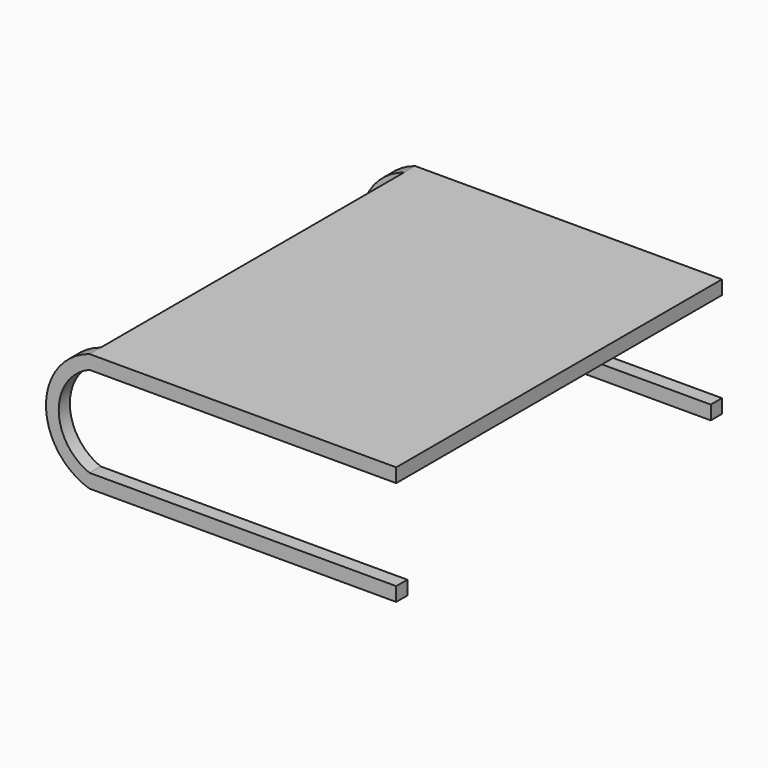
from build123d import *

# Parameters (mm, degrees)
F0_W     = 279.4
F0_H     = 370.84
F1_DEPTH = 12.7
F3_DEPTH = 12.7
F4_START = -358.14
F4_DEPTH = 12.7


with BuildPart() as f1:
    # F0 (on Top) → F1 (new body)
    with BuildSketch(Plane.XY):
        Rectangle(F0_W, F0_H)
    extrude(amount=F1_DEPTH)

    # F2 (on face) → F3 (join)
    with BuildSketch(Plane(origin=(0, 185.42, 0), x_dir=(-1, 0, 0), z_dir=(0, 1, 0))):
        with BuildLine():
            Line((-139.7, -82.55), (-139.7, -95.25))
            Line((-139.7, -95.25), (139.7, -95.25))
            ThreePointArc((139.7, -95.25), (179.3299440444, -41.275), (139.7, 12.7))
            Line((139.7, 12.7), (139.7, 0))
            ThreePointArc((139.7, 0), (167.7143480452, -41.275), (139.7, -82.55))
            Line((139.7, -82.55), (-139.7, -82.55))
        make_face()
    extrude(amount=-F3_DEPTH)

    # F2 (on face) → F4 (join)
    with BuildSketch(Plane(origin=(0, 185.42, 0), x_dir=(-1, 0, 0), z_dir=(0, 1, 0)).offset(F4_START)):
        with BuildLine():
            Line((-139.7, -82.55), (-139.7, -95.25))
            Line((-139.7, -95.25), (139.7, -95.25))
            ThreePointArc((139.7, -95.25), (179.3299440444, -41.275), (139.7, 12.7))
            Line((139.7, 12.7), (139.7, 0))
            ThreePointArc((139.7, 0), (167.7143480452, -41.275), (139.7, -82.55))
            Line((139.7, -82.55), (-139.7, -82.55))
        make_face()
    extrude(amount=-F4_DEPTH)


solid = f1.part
